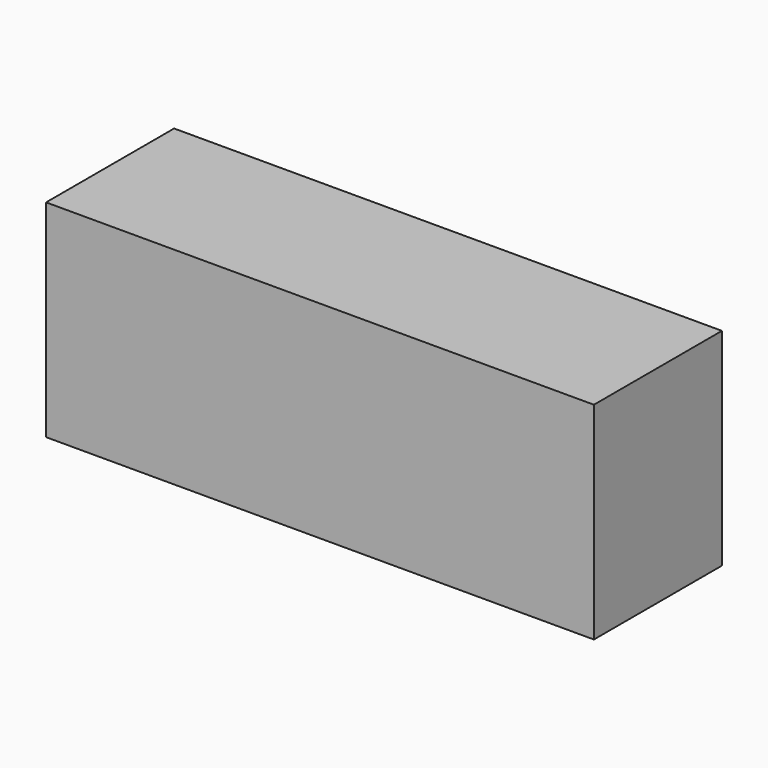
from build123d import *

# Parameters (mm, degrees)
F1_DEPTH = 203.2


with BuildPart() as f1:
    # F0 (on Right) → F1 (new body)
    with BuildSketch(Plane.YZ):
        Polygon((-30.099476, 76.673836), (-30.099476, 0), (29.082524, 0), (29.259101, 0), (29.259101, 76.673836), align=None)
    extrude(amount=-F1_DEPTH)


solid = f1.part
